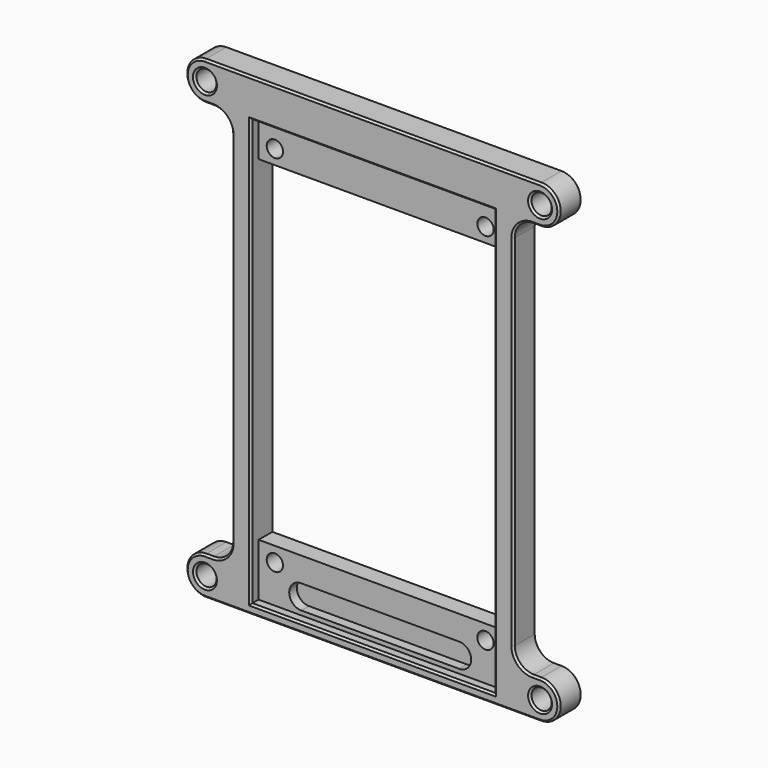
from build123d import *

# Parameters (mm, degrees)
SKETCH210_W     = 58.8
SKETCH210_H     = 99
SKETCH210_R     = 1.7
SKETCH210_W_2   = 50.8
SKETCH210_H_2   = 70
PAD109_DEPTH    = 6
SKETCH211_R     = 2.1
PAD110_DEPTH    = 6
SKETCH212_W     = 50.8
SKETCH212_H     = 89
POCKET044_DEPTH = 2
POCKET045_DEPTH = 2
FILLET_R        = 4
CHAMFER074_SIZE = 0.4


with BuildPart() as part:
    # Sketch210 (on Binder) → Pad109 (new body)
    with BuildSketch(Plane(origin=(0, 78, 0), x_dir=(-1, 0, 0), z_dir=(0, 1, 0))):
        with Locations((0, 257.5)):
            Rectangle(SKETCH210_W, SKETCH210_H)
        with Locations((-22, 217.92)):
            Circle(SKETCH210_R, mode=Mode.SUBTRACT)
        with Locations((22, 217.92)):
            Circle(SKETCH210_R, mode=Mode.SUBTRACT)
        with Locations((22, 294)):
            Circle(SKETCH210_R, mode=Mode.SUBTRACT)
        with Locations((-22, 294)):
            Circle(SKETCH210_R, mode=Mode.SUBTRACT)
        with Locations((0, 256)):
            Rectangle(SKETCH210_W_2, SKETCH210_H_2, mode=Mode.SUBTRACT)
    extrude(amount=PAD109_DEPTH)

    # Sketch211 (on Face13 of Pad109) → Pad110 (join)
    with BuildSketch(Plane.XZ.offset(-78)):
        with BuildLine():
            ThreePointArc((-29.4, 299), (-25.4, 303), (-29.4, 307))
            Line((-29.4, 307), (-35, 307))
            ThreePointArc((-35, 307), (-39, 303), (-35, 299))
            Line((-35, 299), (-29.4, 299))
        make_face()
        with Locations((-35, 303)):
            Circle(SKETCH211_R, mode=Mode.SUBTRACT)
        with BuildLine():
            ThreePointArc((-29.4, 208), (-25.4, 212), (-29.4, 216))
            Line((-29.4, 216), (-35, 216))
            ThreePointArc((-35, 216), (-39, 212), (-35, 208))
            Line((-35, 208), (-29.4, 208))
        make_face()
        with Locations((-35, 212)):
            Circle(SKETCH211_R, mode=Mode.SUBTRACT)
    pad110 = extrude(amount=-PAD110_DEPTH)

    # Mirrored: Pad110 across YZ
    add(pad110.mirror(Plane.YZ))

    # Sketch212 (on Face6 of Mirrored) → Pocket044 (cut)
    with BuildSketch(Plane.XZ.offset(-78)):
        with Locations((0, 254.5)):
            Rectangle(SKETCH212_W, SKETCH212_H)
    extrude(amount=-POCKET044_DEPTH, mode=Mode.SUBTRACT)

    # Sketch213 (on Face28 of Pocket044) → Pocket045 (cut)
    with BuildSketch(Plane.XZ.offset(-80)):
        with BuildLine():
            ThreePointArc((-16.5, 215.9), (-19, 213.4), (-16.5, 210.9))
            Line((-16.5, 210.9), (16.5, 210.9))
            ThreePointArc((16.5, 210.9), (19, 213.4), (16.5, 215.9))
            Line((16.5, 215.9), (-16.5, 215.9))
        make_face()
    extrude(amount=-POCKET045_DEPTH, mode=Mode.SUBTRACT)

    # Fillet
    fillet_edges = [part.edges().sort_by_distance(p)[0] for p in [
        (-29.4, 81, 216),
        (-29.4, 81, 299),
        (29.4, 81, 299),
        (29.4, 81, 216),
    ]]
    fillet(fillet_edges, radius=FILLET_R)

    # Chamfer074
    chamfer074_edges = [part.edges().sort_by_distance(p)[0] for p in [
        (34.2, 84, 216),
        (30.571573, 84, 217.171573),
        (39, 84, 212),
        (29.4, 84, 257.5),
        (0, 84, 208),
        (30.571573, 84, 297.828427),
        (-39, 84, 212),
        (34.2, 84, 299),
        (-34.2, 84, 216),
        (39, 84, 303),
        (-30.571573, 84, 217.171573),
        (0, 84, 307),
        (-29.4, 84, 257.5),
        (-39, 84, 303),
        (-30.571573, 84, 297.828427),
        (-34.2, 84, 299),
        (0, 84, 291),
        (-25.4, 84, 256),
        (0, 84, 221),
        (25.4, 84, 256),
        (-37.1, 84, 212),
        (-37.1, 84, 303),
        (37.1, 84, 212),
        (37.1, 84, 303),
        (-20.3, 84, 294),
        (23.7, 84, 294),
        (-20.3, 84, 217.92),
        (23.7, 84, 217.92),
        (34.2, 78, 216),
        (30.571573, 78, 217.171573),
        (39, 78, 212),
        (29.4, 78, 257.5),
        (0, 78, 208),
        (30.571573, 78, 297.828427),
        (-39, 78, 212),
        (34.2, 78, 299),
        (-34.2, 78, 216),
        (39, 78, 303),
        (-30.571573, 78, 217.171573),
        (0, 78, 307),
        (-29.4, 78, 257.5),
        (-39, 78, 303),
        (-30.571573, 78, 297.828427),
        (-34.2, 78, 299),
        (-37.1, 78, 303),
        (-37.1, 78, 212),
        (37.1, 78, 303),
        (25.4, 78, 254.5),
        (0, 78, 299),
        (-25.4, 78, 254.5),
        (0, 78, 210),
        (37.1, 78, 212),
    ]]
    chamfer(chamfer074_edges, length=CHAMFER074_SIZE)


solid = part.part
